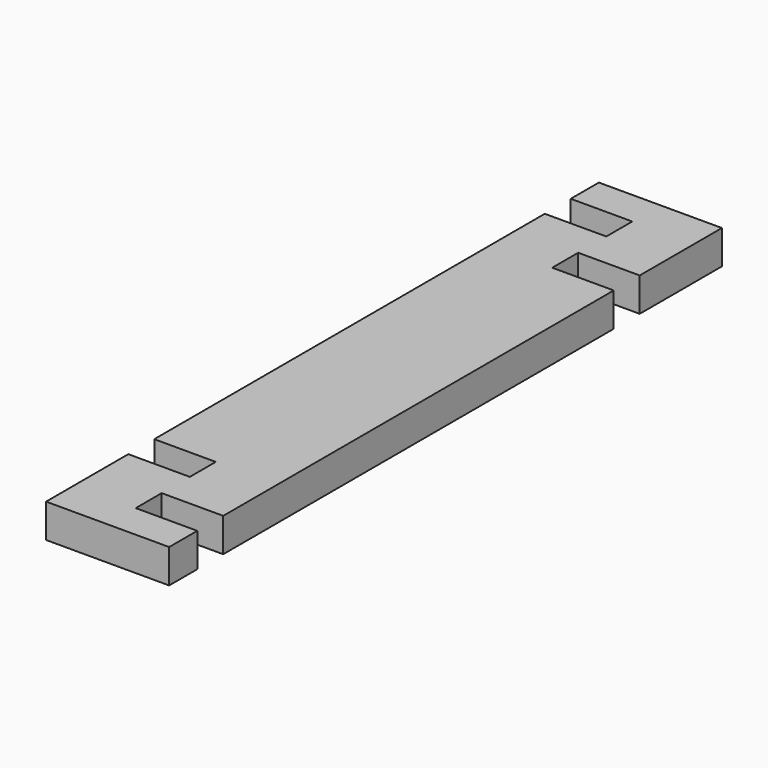
from build123d import *

# Parameters (mm, degrees)
PAD_DEPTH = 5


with BuildPart() as part:
    # Sketch → Pad (new body)
    with BuildSketch(Plane.XY):
        Polygon((-9.1, 51.1), (9.1, 51.1), (9.1, 35.9), (0, 35.9), (0, 31.1), (9.1, 31.1), (9.1, -41.1), (0, -41.1), (0, -45.9), (9.1, -45.9), (9.1, -51.1), (-9.1, -51.1), (-9.1, -35.9), (0, -35.9), (0, -31.1), (-9.1, -31.1), (-9.1, 41.1), (0, 41.1), (0, 45.9), (-9.1, 45.9), align=None)
    extrude(amount=PAD_DEPTH)


solid = part.part
